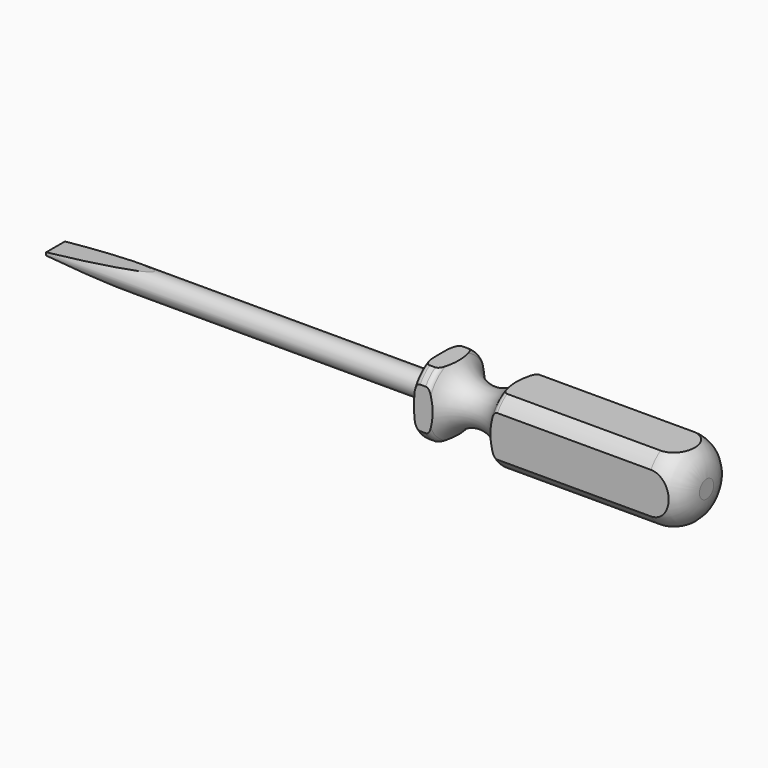
from build123d import *

# Parameters (mm, degrees)
F3_W        = 1.8414998049
F3_H        = 12.7
F3_W_2      = 12.7
F3_H_2      = 1.8414998049
F1_FACE_R   = 6.985
F1_FACE_R_2 = 2.54
F4_DEPTH    = 59.8805
F5_DEPTH    = 12.7


with BuildPart() as f1:
    # F0 (on Front) → F1 (revolve)
    with BuildSketch(Plane.XZ):
        with BuildLine():
            Line((-139.7, 0), (0, 0))
            Line((0, 0), (0, 1.905))
            ThreePointArc((0, 1.905), (-1.8598719395, 6.3951280605), (-6.35, 8.255))
            Line((-6.35, 8.255), (-39.2910341604, 8.255))
            ThreePointArc((-39.2910341604, 8.255), (-39.9260341604, 8.0848522628), (-40.3908864232, 7.62))
            ThreePointArc((-40.3908864232, 7.62), (-46.99, 3.81), (-53.5891135768, 7.62))
            ThreePointArc((-53.5891135768, 7.62), (-54.0539658396, 8.0848522628), (-54.6889658396, 8.255))
            Line((-54.6889658396, 8.255), (-55.88, 8.255))
            ThreePointArc((-55.88, 8.255), (-56.7780256121, 7.8830256121), (-57.15, 6.985))
            Line((-57.15, 6.985), (-57.15, 2.54))
            Line((-57.15, 2.54), (-139.7, 2.54))
            Line((-139.7, 2.54), (-139.7, 0))
        make_face()
    revolve(axis=Axis((31.713694334, 0, 0), (-1, 0, 0)))

    # F3 (on Right) + F1_face (on face) → F4 (cut)
    with BuildSketch(Plane.YZ):
        with Locations((7.9057499024, 0)):
            Rectangle(F3_W, F3_H)
        with Locations((0, 7.9057499024)):
            Rectangle(F3_W_2, F3_H_2)
        with Locations((-7.9057499024, 0)):
            Rectangle(F3_W, F3_H)
        with Locations((0, -7.9057499024)):
            Rectangle(F3_W_2, F3_H_2)
    with BuildSketch(Plane(origin=(-57.15, 0, 0), x_dir=(0, -1, 0), z_dir=(-1, 0, 0))):
        Circle(F1_FACE_R)
        Circle(F1_FACE_R_2, mode=Mode.SUBTRACT)
    extrude(amount=-F4_DEPTH, dir=(1, 0, 0), mode=Mode.SUBTRACT)

    # F2 (on Front) → F5 (cut, symmetric)
    with BuildSketch(Plane.XZ):
        Polygon((-139.7, 2.54), (-139.7, 0.3175), (-118.5543250005, 2.54), align=None)
        Polygon((-139.7, -0.3175), (-139.7, -2.54), (-118.5543250005, -2.54), align=None)
    extrude(amount=F5_DEPTH, both=True, mode=Mode.SUBTRACT)


solid = f1.part
